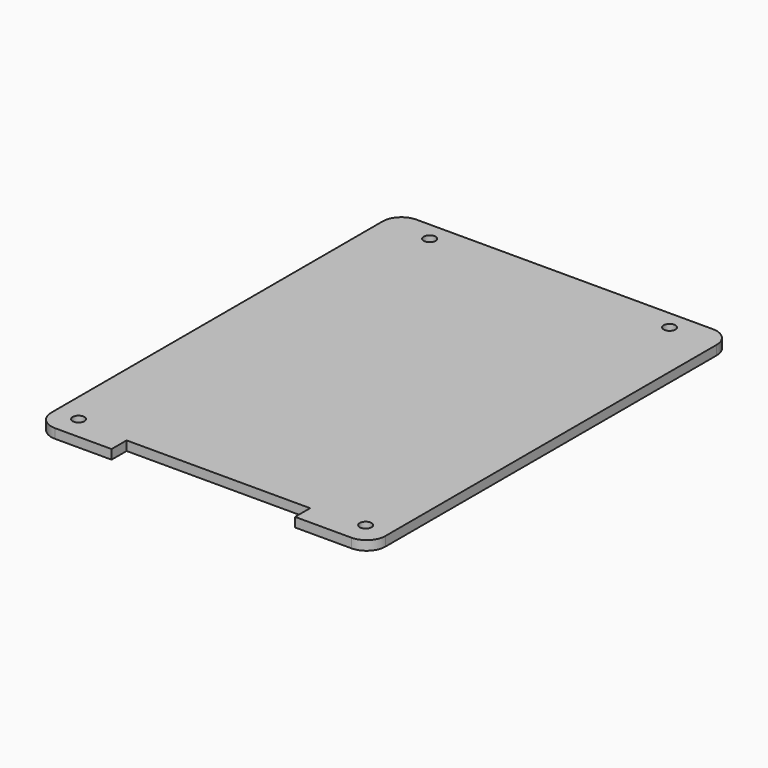
from build123d import *

# Parameters (mm, degrees)
F0_R     = 3.96875
F1_DEPTH = 6.3246


with BuildPart() as f1:
    # F0 (on Top) → F1 (new body)
    with BuildSketch(Plane.XY):
        with BuildLine():
            Line((61.9125, -152.4), (100.0125, -152.4))
            ThreePointArc((100.0125, -152.4), (108.992756, -148.680256), (112.7125, -139.7))
            Line((112.7125, -139.7), (112.7125, 139.7))
            ThreePointArc((112.7125, 139.7), (108.992756, 148.680256), (100.0125, 152.4))
            Line((100.0125, 152.4), (-100.0125, 152.4))
            ThreePointArc((-100.0125, 152.4), (-108.992756, 148.680256), (-112.7125, 139.7))
            Line((-112.7125, 139.7), (-112.7125, -139.7))
            ThreePointArc((-112.7125, -139.7), (-108.992756, -148.680256), (-100.0125, -152.4))
            Line((-100.0125, -152.4), (-61.9125, -152.4))
            Line((-61.9125, -152.4), (-61.9125, -139.7))
            Line((-61.9125, -139.7), (61.9125, -139.7))
            Line((61.9125, -139.7), (61.9125, -152.4))
        make_face()
        with Locations((-96.8375, -136.525)):
            Circle(F0_R, mode=Mode.SUBTRACT)
        with Locations((96.8375, -136.525)):
            Circle(F0_R, mode=Mode.SUBTRACT)
        with Locations((-80.9625, 139.7)):
            Circle(F0_R, mode=Mode.SUBTRACT)
        with Locations((80.9625, 139.7)):
            Circle(F0_R, mode=Mode.SUBTRACT)
    extrude(amount=F1_DEPTH)


solid = f1.part
